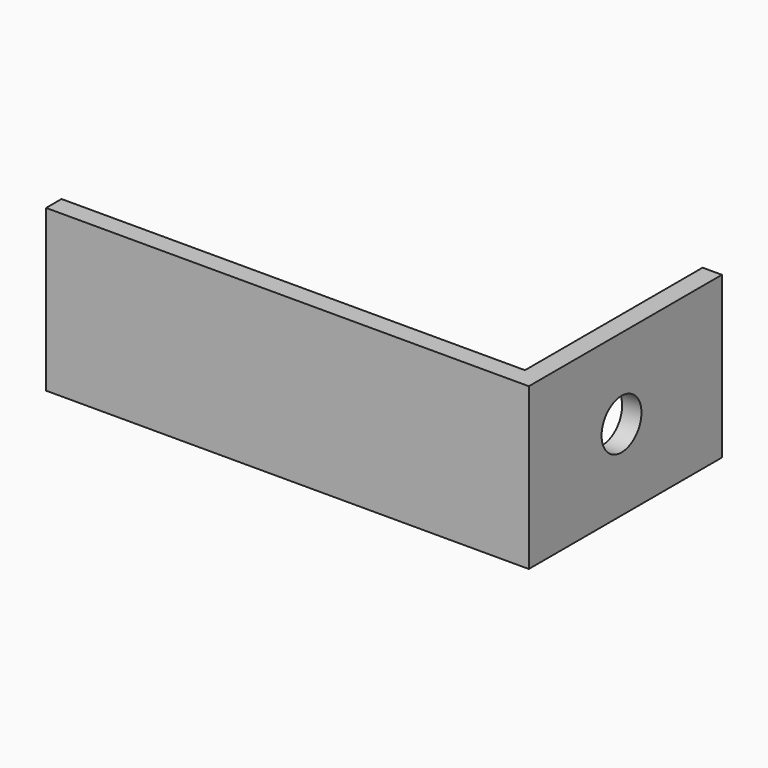
from build123d import *

# Parameters (mm, degrees)
F1_DEPTH = 10
F2_R     = 1.55
F3_DEPTH = 1.2


with BuildPart() as f1:
    # F0 (on Top) → F1 (new body)
    with BuildSketch(Plane.XY):
        Polygon((23.076923, 0), (-5.723077, 0), (-5.723077, -1.2), (24.276923, -1.2), (24.276923, 13.8), (23.076923, 13.8), align=None)
    extrude(amount=F1_DEPTH)

    # F2 (on face) → F3 (cut)
    with BuildSketch(Plane.YZ.offset(24.276923)):
        with Locations((6, 5)):
            Circle(F2_R)
    extrude(amount=-F3_DEPTH, mode=Mode.SUBTRACT)


solid = f1.part
